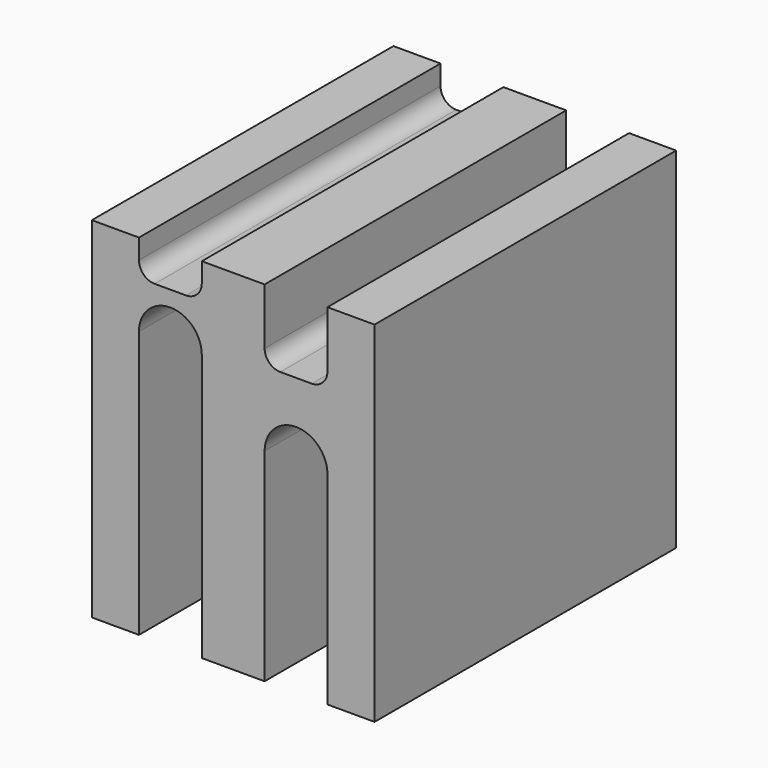
from build123d import *

# Parameters (mm, degrees)
F1_DEPTH = 609.6


with BuildPart() as f1:
    # F0 (on Front) → F1 (new body)
    with BuildSketch(Plane.XZ):
        with BuildLine():
            Line((0, 431.8), (0, 0))
            Line((0, 0), (76.2, 0))
            Line((76.2, 0), (76.2, 431.8))
            ThreePointArc((76.2, 431.8), (91.078976, 467.721024), (127, 482.6))
            ThreePointArc((127, 482.6), (162.921024, 467.721024), (177.8, 431.8))
            Line((177.8, 431.8), (177.8, 0))
            Line((177.8, 0), (279.4, 0))
            Line((279.4, 0), (279.4, 327.887458))
            ThreePointArc((279.4, 327.887458), (294.278976, 363.808483), (330.2, 378.687458))
            ThreePointArc((330.2, 378.687458), (366.121024, 363.808483), (381, 327.887458))
            Line((381, 327.887458), (381, 0))
            Line((381, 0), (457.2, 0))
            Line((457.2, 0), (457.2, 565.605909))
            Line((457.2, 565.605909), (381, 565.605909))
            Line((381, 565.605909), (381, 473.937458))
            ThreePointArc((381, 473.937458), (373.560512, 455.976946), (355.6, 448.537458))
            Line((355.6, 448.537458), (304.8, 448.537458))
            ThreePointArc((304.8, 448.537458), (286.839488, 455.976946), (279.4, 473.937458))
            Line((279.4, 473.937458), (279.4, 564.986005))
            Line((279.4, 564.986005), (177.8, 564.986005))
            Line((177.8, 564.986005), (177.8, 533.4))
            ThreePointArc((177.8, 533.4), (170.360512, 515.439488), (152.4, 508))
            Line((152.4, 508), (101.6, 508))
            ThreePointArc((101.6, 508), (83.639488, 515.439488), (76.2, 533.4))
            Line((76.2, 533.4), (76.2, 565.605909))
            Line((76.2, 565.605909), (0, 565.605909))
            Line((0, 565.605909), (0, 431.8))
        make_face()
    extrude(amount=F1_DEPTH)


solid = f1.part
